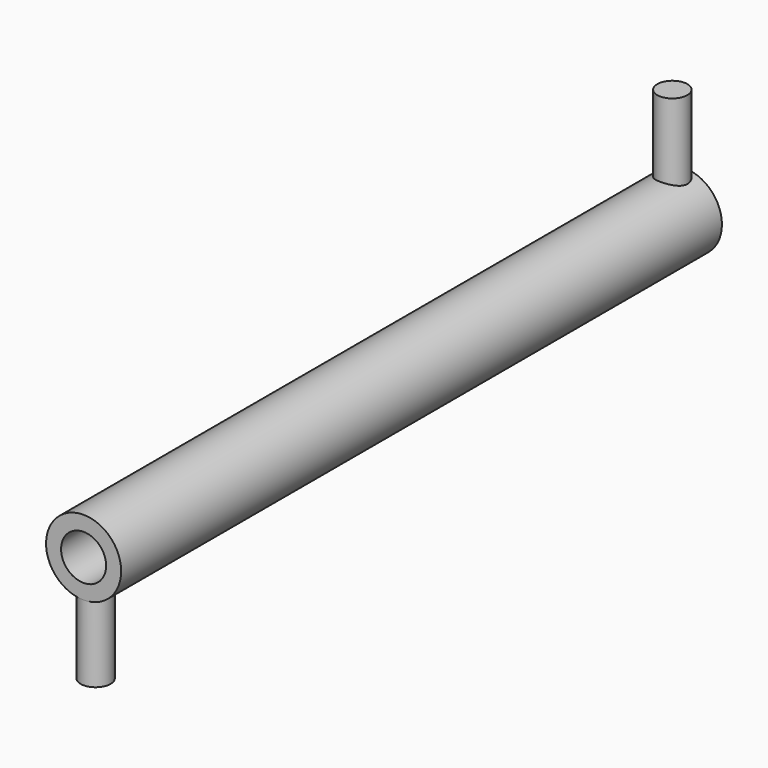
from build123d import *

# Parameters (mm, degrees)
F0_R     = 50
F0_R_2   = 30
F1_DEPTH = 1000
F4_R     = 20
F5_DEPTH = 105.1742431504
F6_R     = 20
F7_DEPTH = 105.1742431504


with BuildPart() as f1:
    # F0 (on Front) → F1 (new body)
    with BuildSketch(Plane.XZ):
        Circle(F0_R)
        Circle(F0_R_2, mode=Mode.SUBTRACT)
    extrude(amount=F1_DEPTH)

    # F4 (on offset) → F5 (join, up to face)
    with BuildSketch(Plane.XY.offset(150)):
        with Locations((0, -20)):
            Circle(F4_R)
    extrude(amount=-F5_DEPTH)

    # F6 (on offset) → F7 (join, up to face)
    with BuildSketch(Plane.XY.offset(-150)):
        with Locations((0, -980)):
            Circle(F6_R)
    extrude(amount=F7_DEPTH)


solid = f1.part
